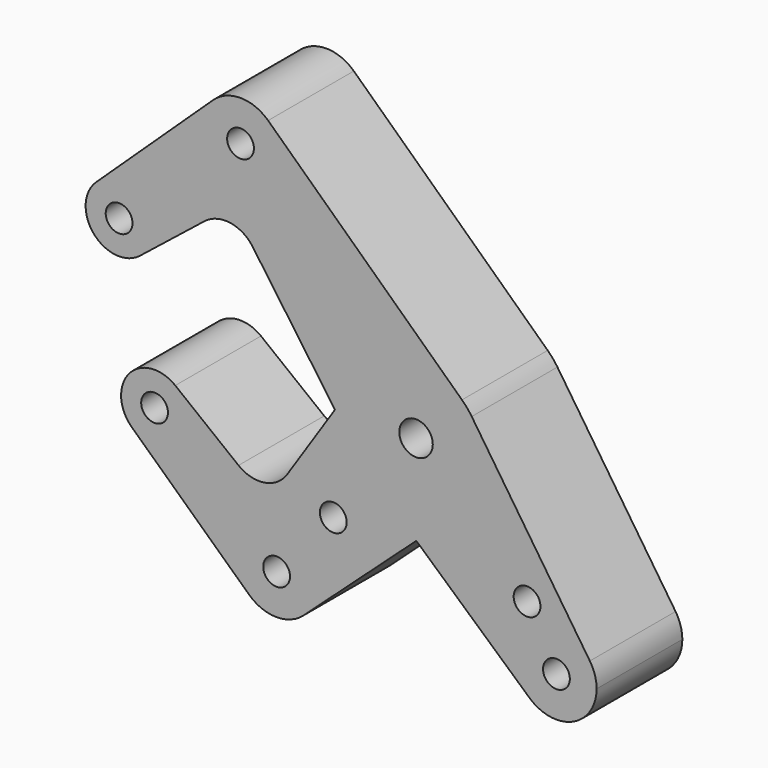
from build123d import *

# Parameters (mm, degrees)
F0_R     = 3.175
F0_R_2   = 3.96875
F1_DEPTH = 25.4


with BuildPart() as f1:
    # F0 (on Front) → F1 (new body)
    with BuildSketch(Plane.XZ):
        with BuildLine():
            ThreePointArc((26.9262440233, -45.4676864135), (37.1682864336, -47.0737686401), (42.8102251661, -38.3762138003))
            ThreePointArc((42.8102251661, -38.3762138003), (42.3999454948, -35.6108027404), (41.2044512386, -33.0836262089))
            ThreePointArc((41.2044512386, -33.0836262089), (27.0442454474, -31.1806737127), (26.9262440233, -45.4676864135))
        make_face()
        with Locations((33.2852251661, -38.3762138003)):
            Circle(F0_R, mode=Mode.SUBTRACT)
        with BuildLine():
            ThreePointArc((26.9262440233, -45.4676864135), (27.0442454474, -31.1806737127), (41.2044512386, -33.0836262089))
            Line((41.2044512386, -33.0836262089), (13.1987101208, 8.820979319))
            ThreePointArc((13.1987101208, 8.820979319), (15.1912005478, 4.609018433), (15.875, 0))
            ThreePointArc((15.875, 0), (14.5156502636, -6.4274040191), (10.6703987497, -11.7540722953))
            Line((10.6703987497, -11.7540722953), (0.0653932355, -21.3813431455))
            Line((0.0653932355, -21.3813431455), (26.9262440233, -45.4676864135))
        make_face()
        with Locations((26.3222689506, -25.5025770961)):
            Circle(F0_R, mode=Mode.SUBTRACT)
        with BuildLine():
            ThreePointArc((15.875, 0), (15.1912005478, 4.609018433), (13.1987101208, 8.820979319))
            ThreePointArc((13.1987101208, 8.820979319), (12.1224690662, 10.2499448164), (10.8922900307, 11.5487507067))
            ThreePointArc((10.8922900307, 11.5487507067), (-1.834314477, 15.7686687897), (-13.2524193062, 8.7400805221))
            ThreePointArc((-13.2524193062, 8.7400805221), (-15.8730587934, -0.2482529814), (-12.9726166036, -9.1502373442))
            ThreePointArc((-12.9726166036, -9.1502373442), (-11.8607666217, -10.5516747555), (-10.5983019047, -11.8191210221))
            ThreePointArc((-10.5983019047, -11.8191210221), (0.0485522706, -15.8749257534), (10.6703987497, -11.7540722953))
            ThreePointArc((10.6703987497, -11.7540722953), (14.5156502636, -6.4274040191), (15.875, 0))
        make_face()
        Circle(F0_R_2, mode=Mode.SUBTRACT)
        with BuildLine():
            Line((-26.647623873, -45.6315380732), (0.0653932355, -21.3813431455))
            Line((0.0653932355, -21.3813431455), (-10.5983019047, -11.8191210221))
            ThreePointArc((-10.5983019047, -11.8191210221), (-11.8607666217, -10.5516747555), (-12.9726166036, -9.1502373442))
            Line((-12.9726166036, -9.1502373442), (-19.2147683858, -0.3005169703))
            Line((-19.2147683858, -0.3005169703), (-30.5474012326, -17.4839744853))
            ThreePointArc((-30.5474012326, -17.4839744853), (-35.9047663103, -20.9493627188), (-42.0820013957, -19.3518512525))
            Line((-42.0820013957, -19.3518512525), (-57.0757936348, -7.5537803256))
            ThreePointArc((-57.0757936348, -7.5537803256), (-54.8440071189, -10.3244537385), (-54.0466841448, -13.7916973539))
            ThreePointArc((-54.0466841448, -13.7916973539), (-58.817458973, -21.070142101), (-67.394906617, -19.5992776228))
            Line((-67.394906617, -19.5992776228), (-39.5427300894, -45.5481910186))
            ThreePointArc((-39.5427300894, -45.5481910186), (-36.849933329, -29.8449609995), (-23.5248631228, -38.579094696))
            ThreePointArc((-23.5248631228, -38.579094696), (-24.3404729646, -42.4355371074), (-26.647623873, -45.6315380732))
        make_face()
        with Locations((-19.6233562292, -22.9063374758)):
            Circle(F0_R, mode=Mode.SUBTRACT)
        with BuildLine():
            Line((-10.5983019047, -11.8191210221), (0.0653932355, -21.3813431455))
            Line((0.0653932355, -21.3813431455), (10.6703987497, -11.7540722953))
            ThreePointArc((10.6703987497, -11.7540722953), (0.0485522706, -15.8749257534), (-10.5983019047, -11.8191210221))
        make_face()
        with BuildLine():
            ThreePointArc((-13.2524193062, 8.7400805221), (-1.834314477, 15.7686687897), (10.8922900307, 11.5487507067))
            Line((10.8922900307, 11.5487507067), (-35.0711574392, 54.8995176744))
            ThreePointArc((-35.0711574392, 54.8995176744), (-32.8608164346, 51.7436071154), (-32.0815314576, 47.9702672503))
            ThreePointArc((-32.0815314576, 47.9702672503), (-45.3798713227, 39.2245522274), (-48.1419054761, 54.8995176744))
            Line((-48.1419054761, 54.8995176744), (-75.8348368232, 28.7807237291))
            ThreePointArc((-75.8348368232, 28.7807237291), (-67.2442419203, 30.2944442282), (-62.4511918078, 23.0063483758))
            ThreePointArc((-62.4511918078, 23.0063483758), (-63.237943921, 19.5609585706), (-65.4422370763, 16.798571653))
            Line((-65.4422370763, 16.798571653), (-50.1509863937, 28.9828821829))
            ThreePointArc((-50.1509863937, 28.9828821829), (-44.0823996147, 30.6328866939), (-38.7182233604, 27.3502241323))
            Line((-38.7182233604, 27.3502241323), (-19.2147683858, -0.3005169703))
            Line((-19.2147683858, -0.3005169703), (-13.2524193062, 8.7400805221))
        make_face()
        with BuildLine():
            ThreePointArc((-39.5427300894, -45.5481910186), (-33.1114263313, -48.1038957423), (-26.647623873, -45.6315380732))
            ThreePointArc((-26.647623873, -45.6315380732), (-24.3404729646, -42.4355371074), (-23.5248631228, -38.579094696))
            ThreePointArc((-23.5248631228, -38.579094696), (-36.849933329, -29.8449609995), (-39.5427300894, -45.5481910186))
        make_face()
        with Locations((-33.0498631228, -38.579094696)):
            Circle(F0_R, mode=Mode.SUBTRACT)
        with BuildLine():
            ThreePointArc((-12.9726166036, -9.1502373442), (-15.8730587934, -0.2482529814), (-13.2524193062, 8.7400805221))
            Line((-13.2524193062, 8.7400805221), (-19.2147683858, -0.3005169703))
            Line((-19.2147683858, -0.3005169703), (-12.9726166036, -9.1502373442))
        make_face()
        with BuildLine():
            ThreePointArc((-32.0815314576, 47.9702672503), (-32.8608164346, 51.7436071154), (-35.0711574392, 54.8995176744))
            ThreePointArc((-35.0711574392, 54.8995176744), (-41.6065314576, 57.4952672503), (-48.1419054761, 54.8995176744))
            ThreePointArc((-48.1419054761, 54.8995176744), (-45.3798713227, 39.2245522274), (-32.0815314576, 47.9702672503))
        make_face()
        with Locations((-41.6065314576, 47.9702672503)):
            Circle(F0_R, mode=Mode.SUBTRACT)
        with BuildLine():
            ThreePointArc((-57.0757936348, -7.5537803256), (-68.0121676911, -8.627656241), (-67.394906617, -19.5992776228))
            ThreePointArc((-67.394906617, -19.5992776228), (-58.817458973, -21.070142101), (-54.0466841448, -13.7916973539))
            ThreePointArc((-54.0466841448, -13.7916973539), (-54.8440071189, -10.3244537385), (-57.0757936348, -7.5537803256))
        make_face()
        with Locations((-61.9841841448, -13.7916973539)):
            Circle(F0_R, mode=Mode.SUBTRACT)
        with BuildLine():
            ThreePointArc((-62.4511918078, 23.0063483758), (-67.2442419203, 30.2944442282), (-75.8348368232, 28.7807237291))
            ThreePointArc((-75.8348368232, 28.7807237291), (-76.3849752141, 17.8055319436), (-65.4422370763, 16.798571653))
            ThreePointArc((-65.4422370763, 16.798571653), (-63.237943921, 19.5609585706), (-62.4511918078, 23.0063483758))
        make_face()
        with Locations((-70.3886918078, 23.0063483758)):
            Circle(F0_R, mode=Mode.SUBTRACT)
    extrude(amount=F1_DEPTH)


solid = f1.part
